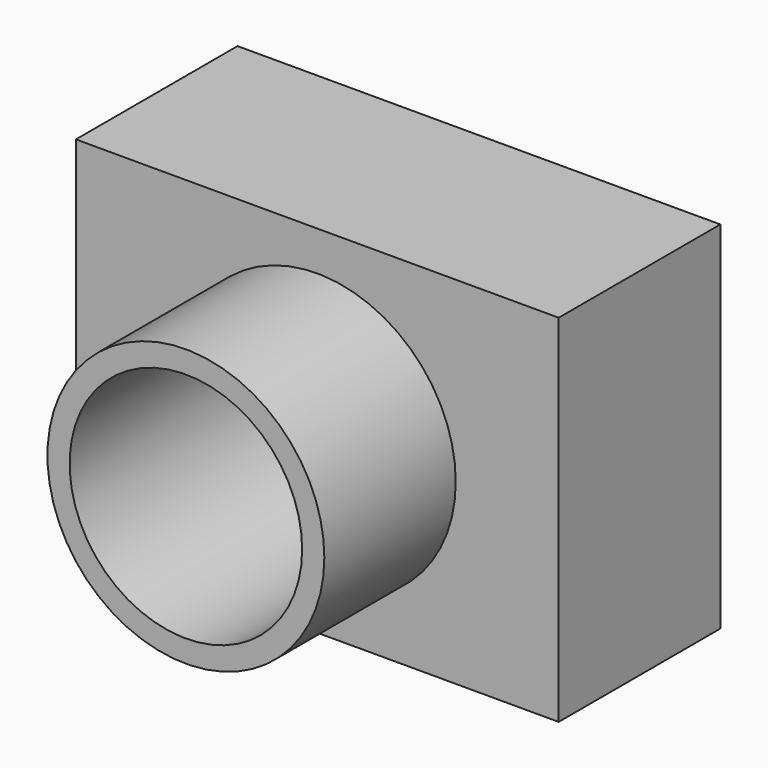
from build123d import *

# Parameters (mm, degrees)
F0_W      = 74.656174
F0_H      = 55.025466
F1_DEPTH  = 31.242
F2_R      = 21.408714
F3_DEPTH  = 25.4
F4_R      = 17.978336
F5_DEPTH  = 25.4
F5_FACE_R = 17.978336
F6_DEPTH  = 25.4


with BuildPart() as f1:
    # F0 (on Front) → F1 (new body)
    with BuildSketch(Plane.XZ):
        Rectangle(F0_W, F0_H)
    extrude(amount=F1_DEPTH)

    # F2 (on face) → F3 (join)
    with BuildSketch(Plane.XZ.offset(31.242)):
        Circle(F2_R)
    extrude(amount=F3_DEPTH)

    # F4 (on face) → F5 (cut)
    with BuildSketch(Plane.XZ.offset(56.642)):
        Circle(F4_R)
    extrude(amount=-F5_DEPTH, mode=Mode.SUBTRACT)

    # F5_face (on face) → F6 (cut)
    with BuildSketch(Plane.XZ.offset(31.242)):
        Circle(F5_FACE_R)
    extrude(amount=-F6_DEPTH, mode=Mode.SUBTRACT)


solid = f1.part
